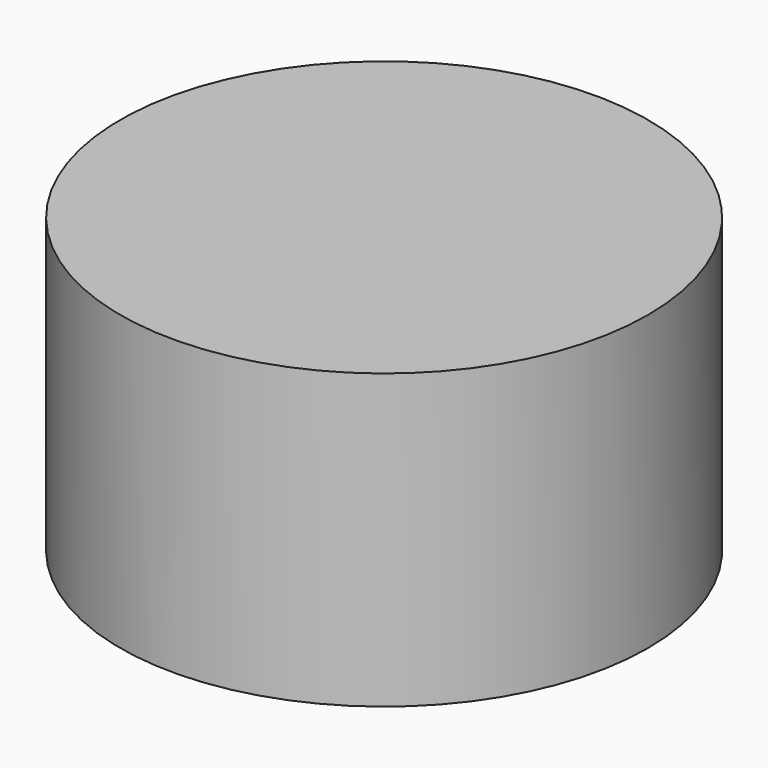
from build123d import *

# Parameters (mm, degrees)
PRISM_DEPTH       = 2
CYLINDER013_R     = 2.7
CYLINDER013_DEPTH = 3


with BuildPart() as prism:
    # Prism → Prism (new body)
    with BuildSketch(Plane.XY.offset(-23)):
        Polygon((1.4, 0), (0.7, 1.212436), (-0.7, 1.212436), (-1.4, 0), (-0.7, -1.212436), (0.7, -1.212436), align=None)
    extrude(amount=PRISM_DEPTH)


with BuildPart() as cut008:
    # Cylinder013 → Cylinder013 (new body)
    with BuildSketch(Plane.XY.offset(-23)):
        Circle(CYLINDER013_R)
    extrude(amount=CYLINDER013_DEPTH)

    # Cut008: cut Prism
    add(prism.part, mode=Mode.SUBTRACT)


solid = cut008.part
